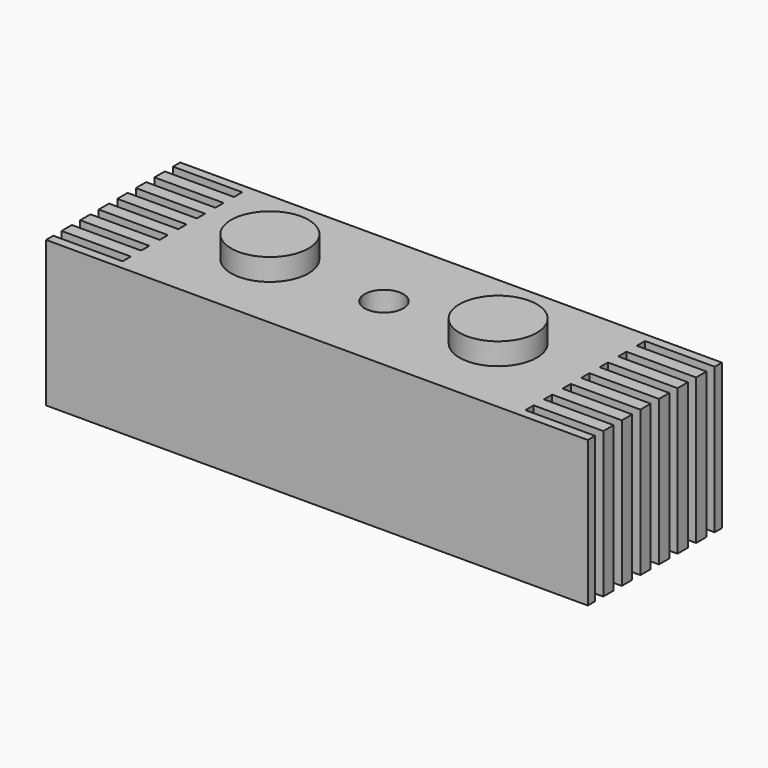
from build123d import *

# Parameters (mm, degrees)
F0_W     = 42
F0_H     = 13
F1_DEPTH = 13
F2_W     = 42
F2_H     = 13
F2_R     = 3
F3_DEPTH = 1.7
F4_W     = 5.5
F4_H     = 0.8
F5_DEPTH = 11.301
F7_R     = 1.5
F8_DEPTH = 11.301


with BuildPart() as f1:
    # F0 (on Top) → F1 (new body)
    with BuildSketch(Plane.XY):
        Rectangle(F0_W, F0_H)
    extrude(amount=F1_DEPTH)

    # F2 (on face) → F3 (cut)
    with BuildSketch(Plane.XY.offset(13)):
        Rectangle(F2_W, F2_H)
        with Locations((-8.85, 0)):
            Circle(F2_R, mode=Mode.SUBTRACT)
        with Locations((8.85, 0)):
            Circle(F2_R, mode=Mode.SUBTRACT)
    extrude(amount=-F3_DEPTH, mode=Mode.SUBTRACT)

    # F4 (on face) → F5 (cut, through all)
    with BuildSketch(Plane.XY.offset(11.3)):
        with Locations((18.35, 5.4)):
            Rectangle(F4_W, F4_H)
        with Locations((18.35, 3.6)):
            Rectangle(F4_W, F4_H)
        with Locations((18.35, 1.8)):
            Rectangle(F4_W, F4_H)
        with Locations((18.35, 0)):
            Rectangle(F4_W, F4_H)
        with Locations((18.35, -1.8)):
            Rectangle(F4_W, F4_H)
        with Locations((18.35, -3.6)):
            Rectangle(F4_W, F4_H)
        with Locations((18.35, -5.4)):
            Rectangle(F4_W, F4_H)
        with Locations((-18.380066, 5.4)):
            Rectangle(F4_W, F4_H)
        with Locations((-18.380066, 3.6)):
            Rectangle(F4_W, F4_H)
        with Locations((-18.380066, 1.8)):
            Rectangle(F4_W, F4_H)
        with Locations((-18.380066, 0)):
            Rectangle(F4_W, F4_H)
        with Locations((-18.380066, -1.8)):
            Rectangle(F4_W, F4_H)
        with Locations((-18.380066, -3.6)):
            Rectangle(F4_W, F4_H)
        with Locations((-18.380066, -5.4)):
            Rectangle(F4_W, F4_H)
    extrude(amount=-F5_DEPTH, mode=Mode.SUBTRACT)

    # F7 (on face) → F8 (cut, through all)
    with BuildSketch(Plane.XY.offset(11.3)):
        Circle(F7_R)
    extrude(amount=-F8_DEPTH, mode=Mode.SUBTRACT)


solid = f1.part
